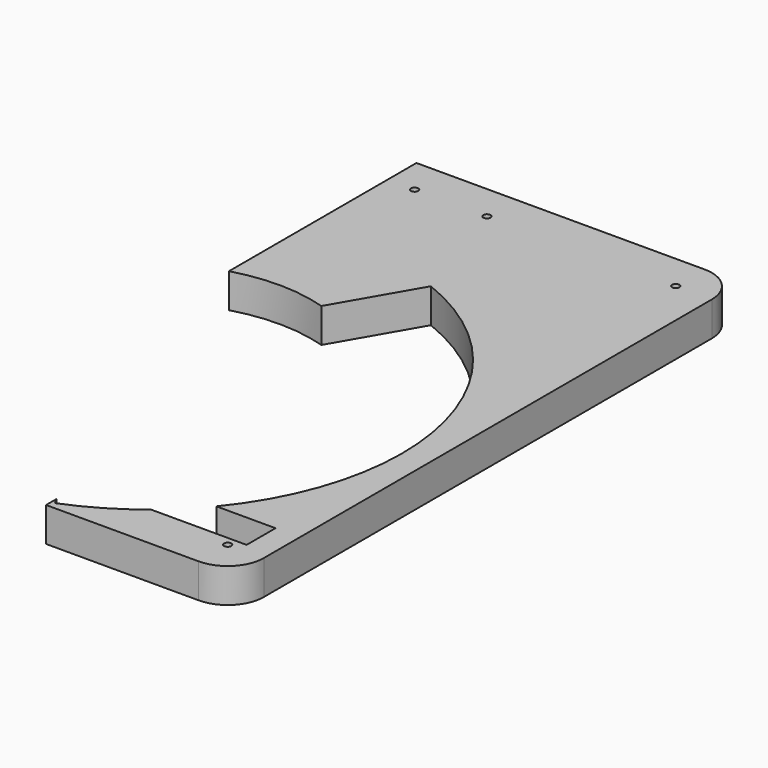
from build123d import *

# Parameters (mm, degrees)
PAD016_DEPTH    = 19
FILLET006_R     = 20
SKETCH023_R     = 2
POCKET014_DEPTH = 19.001
SKETCH026_R     = 2
POCKET016_DEPTH = 19.001
SKETCH047_W     = 56
SKETCH047_H     = 20
POCKET030_DEPTH = 19.001


with BuildPart() as part:
    # Sketch021 → Pad016 (new body)
    with BuildSketch(Plane.XY):
        with BuildLine():
            Line((200, 216.2), (200, 86.458082))
            ThreePointArc((251.554314, 85.993421), (225.811141, 89.996345), (200, 86.458082))
            Line((251.554314, 85.993421), (276.961524, 130))
            ThreePointArc((276.961524, -130), (365, 0), (276.961524, 130))
            Line((276.961524, -130), (275, -126.60254))
            Line((275, -126.60254), (275, -133.8))
            Line((275, -133.8), (379.498932, -133.8))
            Line((379.498932, -133.8), (379.498932, 216.2))
            Line((379.498932, 216.2), (200, 216.2))
        make_face()
    extrude(amount=PAD016_DEPTH)

    # Fillet006
    fillet006_edges = [part.edges().sort_by_distance(p)[0] for p in [
        (379.498932, 216.2, 9.5),
        (379.498932, -133.8, 9.5),
    ]]
    fillet(fillet006_edges, radius=FILLET006_R)

    # Sketch023 (on Face5 of Fillet006) → Pocket014 (cut, through all)
    with BuildSketch(Plane.XY.offset(19)):
        with Locations((215, 196.2)):
            Circle(SKETCH023_R)
    extrude(amount=-POCKET014_DEPTH, mode=Mode.SUBTRACT)

    # Sketch026 (on Face5 of Pocket014) → Pocket016 (cut, through all)
    with BuildSketch(Plane.XY.offset(19)):
        with Locations((254.998932, 196.2)):
            Circle(SKETCH026_R)
        with Locations((359.498932, 196.2)):
            Circle(SKETCH026_R)
        with Locations((359.498932, -113.8)):
            Circle(SKETCH026_R)
    extrude(amount=-POCKET016_DEPTH, mode=Mode.SUBTRACT)

    # Sketch047 (on Face2 of Pocket016) → Pocket030 (cut, through all)
    with BuildSketch(Plane(origin=(0, 0, 0), x_dir=(1, 0, 0), z_dir=(0, 0, -1))):
        with Locations((337.998932, 98.8)):
            Rectangle(SKETCH047_W, SKETCH047_H)
    extrude(amount=-POCKET030_DEPTH, mode=Mode.SUBTRACT)


with BuildPart() as part_1:
    # Body012 placement: moved
    add(part.part.moved(Location((0, 0, -9))))


with BuildPart() as part_2:
    # Clone placement: moved
    add(part_1.part.moved(Location((-200, 133.8, -10))))


solid = part_2.part
